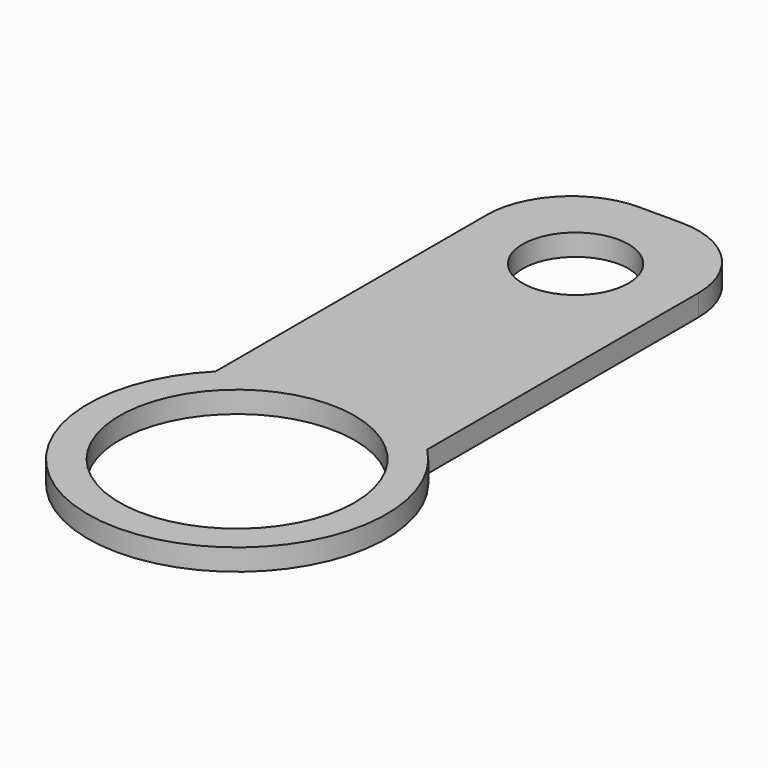
from build123d import *

# Parameters (mm, degrees)
F0_R     = 11.1125
F0_R_2   = 5
F1_DEPTH = 2.032


with BuildPart() as f1:
    # F0 (on Top) → F1 (new body)
    with BuildSketch(Plane.XY):
        with BuildLine():
            Line((2, 50), (-2, 50))
            ThreePointArc((-2, 50), (-7.656854, 47.656854), (-10, 42))
            Line((-10, 42), (-10, 9.958045))
            ThreePointArc((-10, 9.958045), (0, -14.1125), (10, 9.958045))
            Line((10, 9.958045), (10, 42))
            ThreePointArc((10, 42), (7.656854, 47.656854), (2, 50))
        make_face()
        Circle(F0_R, mode=Mode.SUBTRACT)
        with Locations((0, 40)):
            Circle(F0_R_2, mode=Mode.SUBTRACT)
    extrude(amount=F1_DEPTH)


solid = f1.part
